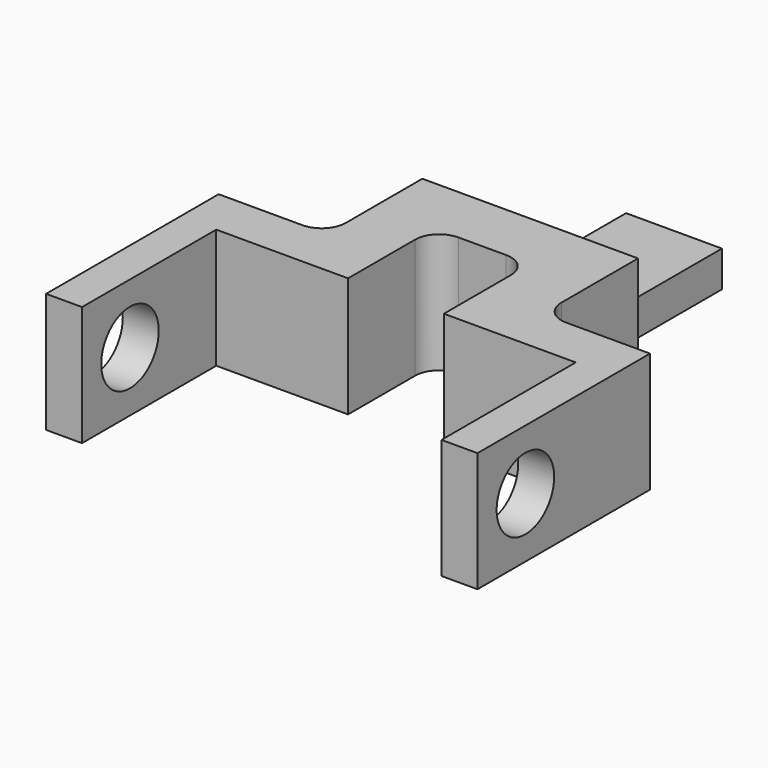
from build123d import *

# Parameters (mm, degrees)
F0_W     = 4
F0_H     = 7.5
F1_DEPTH = 1.5
F2_DEPTH = 5
F4_D     = 3
F5_R     = 1


with BuildPart() as f1:
    # F0 (on Top) → F1 (new body)
    with BuildSketch(Plane.XY):
        with Locations((0, 1.25)):
            Rectangle(F0_W, F0_H)
        Polygon((4.5, -2.5), (2, -2.5), (-2, -2.5), (-4.5, -2.5), (-4.5, -7.5), (-9, -7.5), (-9, -9.5), (-9, -16.5), (-7.5, -16.5), (-7.5, -9.5), (-2, -9.5), (-2, -5), (2, -5), (2, -9.5), (7.5, -9.5), (7.5, -16.5), (9, -16.5), (9, -9.5), (9, -7.5), (4.5, -7.5), align=None)
    extrude(amount=F1_DEPTH)

    # F0 (on Top) → F2 (join)
    with BuildSketch(Plane.XY):
        Polygon((4.5, -2.5), (2, -2.5), (-2, -2.5), (-4.5, -2.5), (-4.5, -7.5), (-9, -7.5), (-9, -9.5), (-9, -16.5), (-7.5, -16.5), (-7.5, -9.5), (-2, -9.5), (-2, -5), (2, -5), (2, -9.5), (7.5, -9.5), (7.5, -16.5), (9, -16.5), (9, -9.5), (9, -7.5), (4.5, -7.5), align=None)
    extrude(amount=F2_DEPTH)

    # F4 (through all)
    with Locations(Plane(origin=(-9, 0, 0), x_dir=(0, -1, 0), z_dir=(-1, 0, 0))):
        with Locations((14, 2.5)):
            Hole(F4_D / 2)

    # F5
    f5_edges = [f1.edges().sort_by_distance(p)[0] for p in [
        (2, -5, 2.5),
        (-2, -5, 2.5),
        (-4.5, -7.5, 2.5),
        (4.5, -7.5, 2.5),
    ]]
    fillet(f5_edges, radius=F5_R)


solid = f1.part
